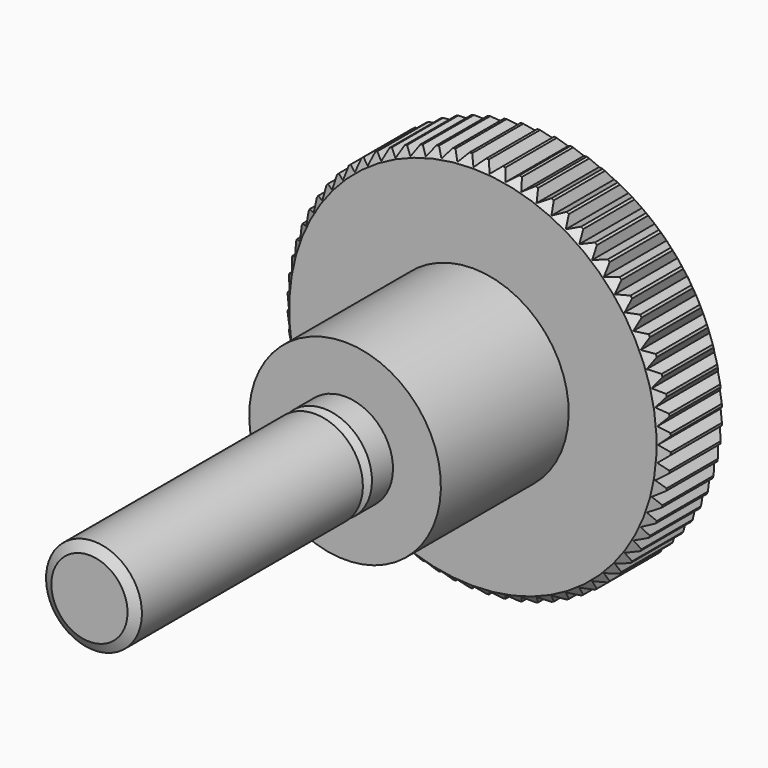
from build123d import *

# Parameters (mm, degrees)
POCKET_DEPTH       = 132.509974
POLARPATTERN_COUNT = 72


with BuildPart() as part:
    # Sketch → Revolution (revolve)
    with BuildSketch(Plane.YZ):
        Polygon((0, 0), (0, 2.385), (0.35507, 3), (17.64493, 3), (18, 2.385), (18.35507, 3), (20, 3), (20, 6), (30, 6), (30, 11.5), (30.5, 12), (34.5, 12), (35, 11.5), (35, 0), align=None)
    revolve(axis=Axis((0, 0, 0), (0, 1, 0)))

    # Sketch001 → Pocket (cut, through all)
    with BuildSketch(Plane.ZX.offset(35)):
        Polygon((-0.5, 12.05), (0, 11.55), (0.5, 12.05), align=None)
    pocket = extrude(amount=-POCKET_DEPTH, mode=Mode.SUBTRACT)

    # PolarPattern: Pocket ×72 about axis
    polarpattern_axis = Axis((0, 35, 0), (0, 1, 0))
    for i in range(1, POLARPATTERN_COUNT):
        add(pocket.rotate(polarpattern_axis, i * 360 / POLARPATTERN_COUNT), mode=Mode.SUBTRACT)


solid = part.part
